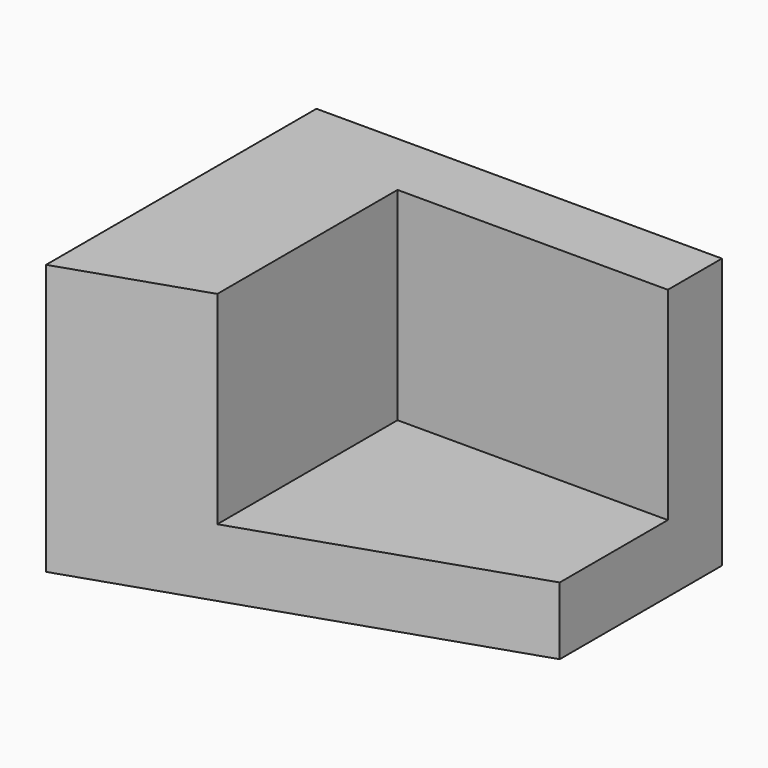
from build123d import *

# Parameters (mm, degrees)
F0_W     = 38.1
F0_H     = 31.75
F1_DEPTH = 25.4
F2_W     = 25.4
F2_H     = 25.4
F3_DEPTH = 19.05
F5_DEPTH = 25.4


with BuildPart() as f1:
    # F0 (on Top) → F1 (new body)
    with BuildSketch(Plane.XY):
        with Locations((19.05, 15.875)):
            Rectangle(F0_W, F0_H)
    extrude(amount=F1_DEPTH)

    # F2 (on face) → F3 (cut)
    with BuildSketch(Plane.XY.offset(25.4)):
        with Locations((25.4, 12.7)):
            Rectangle(F2_W, F2_H)
    extrude(amount=-F3_DEPTH, mode=Mode.SUBTRACT)

    # F4 (on Top) → F5 (cut)
    with BuildSketch(Plane.XY):
        Polygon((38.1, 12.7), (0, 0), (38.1, 0), align=None)
    extrude(amount=F5_DEPTH, mode=Mode.SUBTRACT)


solid = f1.part
